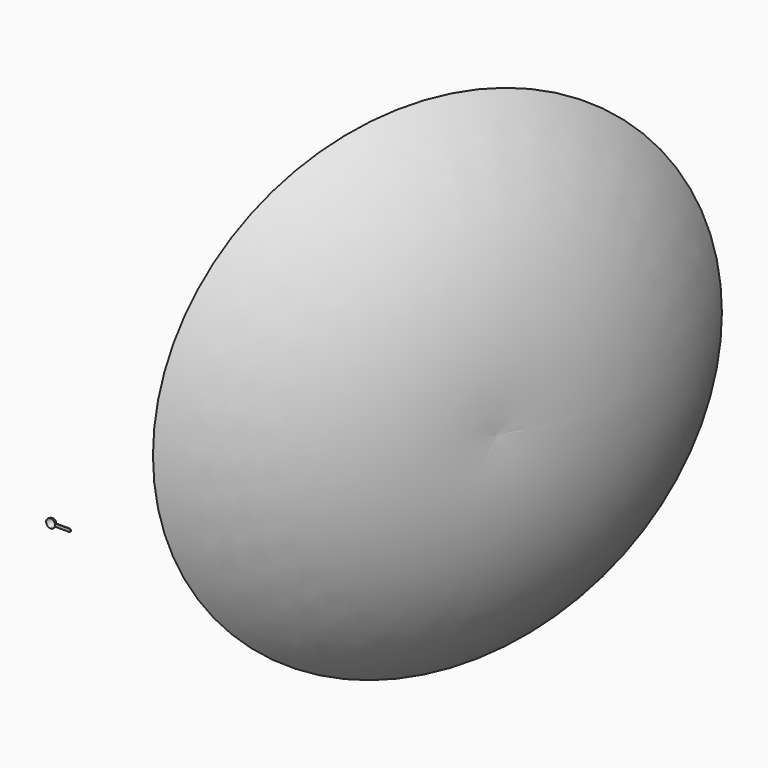
from build123d import *

# Parameters (mm, degrees)
F5_DEPTH = 5.08


with BuildPart() as f1:
    # F0 (on Top) → F1 (revolve)
    with BuildSketch(Plane.XY):
        with BuildLine():
            ThreePointArc((1801.5542030334, 5976.1848449707), (2095.1086897239, 4794.8845292657), (1771.281003952, 3621.5217113495))
            Line((1771.281003952, 3621.5217113495), (1923.0720996857, 3557.9414367676))
            ThreePointArc((1923.0720996857, 3557.9414367676), (2310.561821909, 5007.0546998984), (2005.7098865509, 6475.7761955261))
            Line((2005.7098865509, 6475.7761955261), (1801.5542030334, 5976.1848449707))
        make_face()
    revolve(axis=Axis((1488.879502353, 3739.8103693714, 0), (0.9223547887, -0.3863439449, 0)))


with BuildPart() as f3:
    # F2 (on Top) → F3 (revolve)
    with BuildSketch(Plane.XY):
        with BuildLine():
            ThreePointArc((-47.9755347349, -47.9755347349), (-33.9238259421, -14.0517087928), (0, 0))
            Line((0, 0), (0, 0.2590652651))
            ThreePointArc((0, 0.2590652651), (-34.1070127478, -13.8685219871), (-48.2346, -47.9755347349))
            Line((-48.2346, -47.9755347349), (-47.9755347349, -47.9755347349))
        make_face()
    revolve(axis=Axis((0, -29.3506383896, 0), (0, -1, 0)))


with BuildPart() as f5:
    # F4 (on face) → F5 (new body)
    with BuildSketch(Plane.XZ.offset(47.9755347349)):
        with BuildLine():
            Line((201.1223491233, 15.875), (45.5473491233, 15.875))
            ThreePointArc((45.5473491233, 15.875), (47.5580424491, 8.0504183474), (48.2346, 0))
            ThreePointArc((48.2346, 0), (47.5580424491, -8.0504183474), (45.5473491233, -15.875))
            Line((45.5473491233, -15.875), (201.1223491233, -15.875))
            ThreePointArc((201.1223491233, -15.875), (212.3476692746, -11.2253201513), (216.9973491233, 0))
            ThreePointArc((216.9973491233, 0), (212.3476692746, 11.2253201513), (201.1223491233, 15.875))
        make_face()
    extrude(amount=-F5_DEPTH)


solid = Compound([f1.part, f3.part, f5.part])
